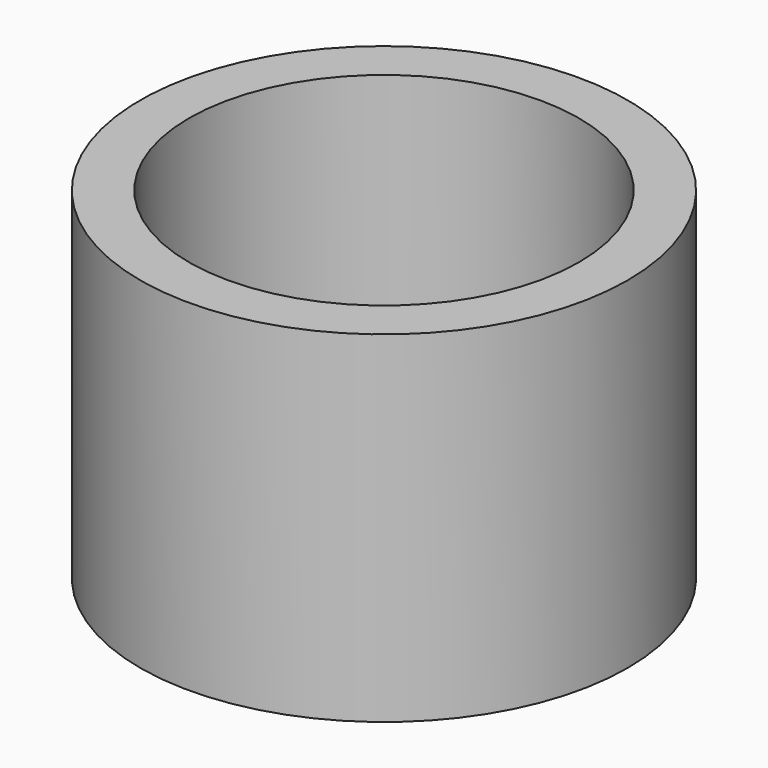
from build123d import *

# Parameters (mm, degrees)
F0_R     = 10
F1_DEPTH = 14
F4_R     = 8
F5_DEPTH = 12
F6_D     = 7


with BuildPart() as f1:
    # F0 (on Top) → F1 (new body)
    with BuildSketch(Plane.XY):
        Circle(F0_R)
    extrude(amount=F1_DEPTH)

    # F4 (on offset) → F5 (cut)
    with BuildSketch(Plane.XY.offset(14)):
        Circle(F4_R)
    extrude(amount=-F5_DEPTH, mode=Mode.SUBTRACT)

    # F6 (through all)
    with Locations(Plane.XY.offset(14)):
        with Locations((0, 0)):
            Hole(F6_D / 2)


solid = f1.part
